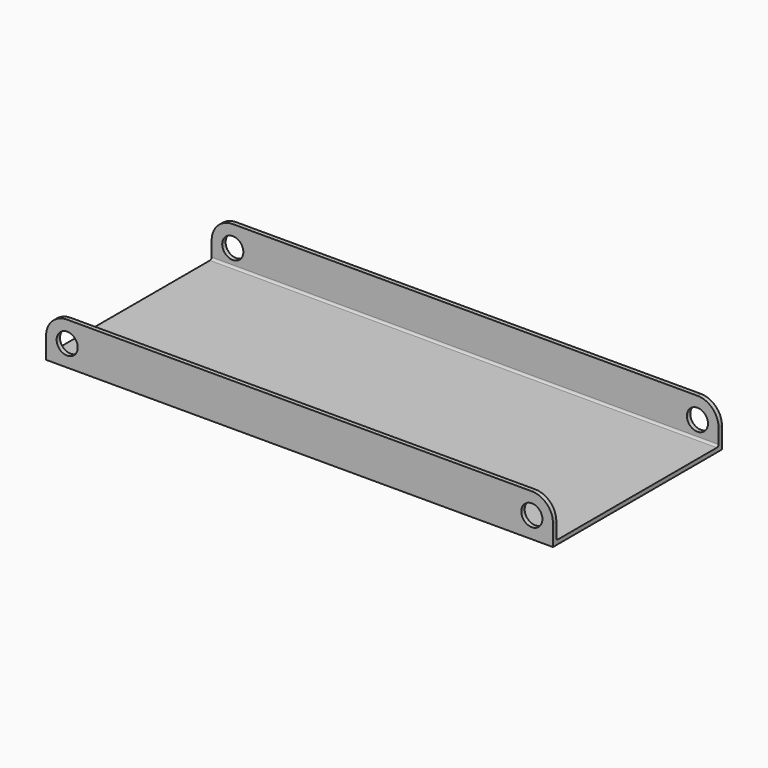
from build123d import *

# Parameters (mm, degrees)
F0_R     = 3.175
F1_DEPTH = 63.5
F2_W     = 60.96
F2_H     = 21.8726252659
F3_DEPTH = 152.401


with BuildPart() as f1:
    # F0 (on Front) → F1 (new body)
    with BuildSketch(Plane.XZ):
        with BuildLine():
            Line((70.2170193255, -6.4695058077), (-69.4829806745, -6.4695058077))
            ThreePointArc((-69.4829806745, -6.4695058077), (-73.973108735, -8.3293777471), (-75.8329806745, -12.8195058077))
            Line((-75.8329806745, -12.8195058077), (-75.8329806745, -19.1695058077))
            Line((-75.8329806745, -19.1695058077), (76.5670193255, -19.1695058077))
            Line((76.5670193255, -19.1695058077), (76.5670193255, -12.8195058077))
            ThreePointArc((76.5670193255, -12.8195058077), (74.707147386, -8.3293777471), (70.2170193255, -6.4695058077))
        make_face()
        with Locations((-69.4829806745, -12.8195058077)):
            Circle(F0_R, mode=Mode.SUBTRACT)
        with Locations((70.2170193255, -12.8195058077)):
            Circle(F0_R, mode=Mode.SUBTRACT)
    extrude(amount=F1_DEPTH)

    # F2 (on face) → F3 (cut, through all)
    with BuildSketch(Plane(origin=(-75.8329806745, 0, 0), x_dir=(0, -1, 0), z_dir=(-1, 0, 0))):
        with Locations((31.75, -1.8831931747)):
            Rectangle(F2_W, F2_H)
        with BuildLine():
            Line((62.23, -12.8195058077), (1.27, -12.8195058077))
            Line((1.27, -12.8195058077), (1.27, -17.2645058077))
            ThreePointArc((1.27, -17.2645058077), (1.4559871939, -17.7135186137), (1.905, -17.8995058077))
            Line((1.905, -17.8995058077), (61.595, -17.8995058077))
            ThreePointArc((61.595, -17.8995058077), (62.0440128061, -17.7135186137), (62.23, -17.2645058077))
            Line((62.23, -17.2645058077), (62.23, -12.8195058077))
        make_face()
    extrude(amount=-F3_DEPTH, mode=Mode.SUBTRACT)


solid = f1.part
